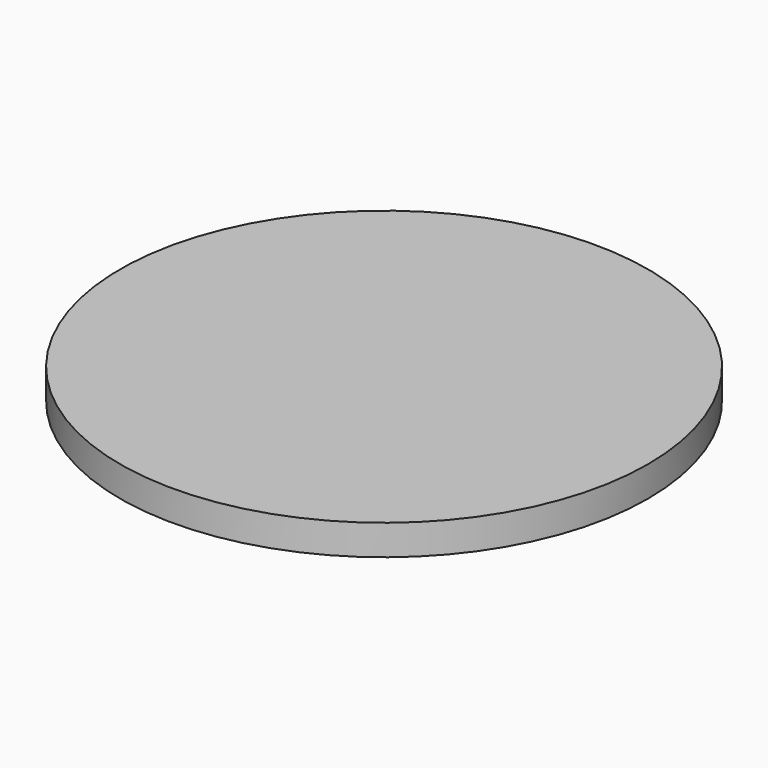
from build123d import *

# Parameters (mm, degrees)
F0_W     = 40
F0_H     = 2.12963
F1_DEPTH = 20
F2_R     = 18.518518
F3_DEPTH = 25.4


with BuildPart() as f1:
    # F0 (on Front) → F1 (new body, symmetric)
    with BuildSketch(Plane.XZ):
        with Locations((1.481482, 1.064815)):
            Rectangle(F0_W, F0_H)
    extrude(amount=F1_DEPTH, both=True)

    # F2 (on face) → F3 (intersect)
    with BuildSketch(Plane.XY.offset(2.12963)):
        Circle(F2_R)
    extrude(amount=-F3_DEPTH, mode=Mode.INTERSECT)


solid = f1.part
